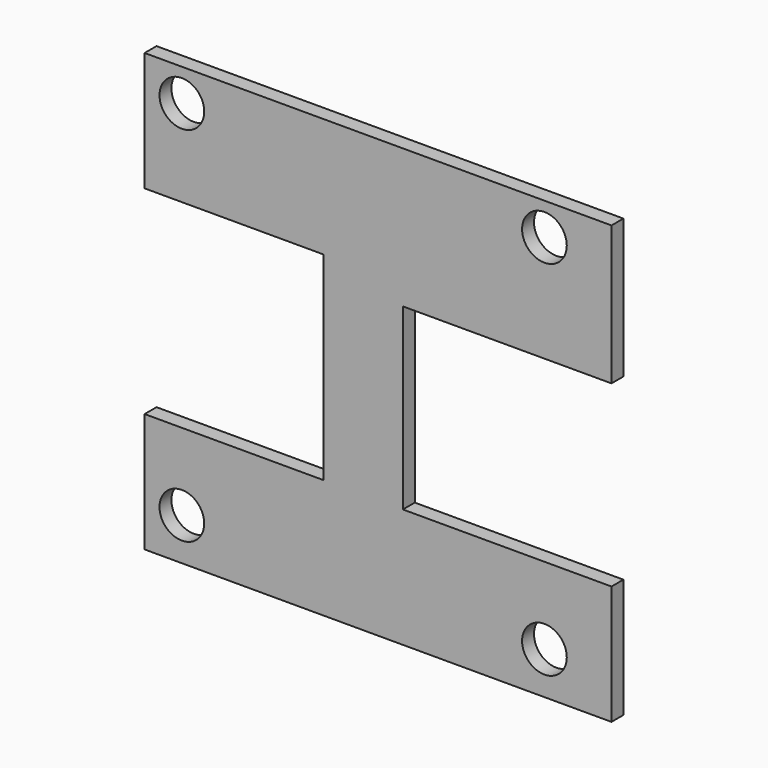
from build123d import *

# Parameters (mm, degrees)
BOX002_W               = 21
BOX002_H               = 18
BOX002_DEPTH           = 10
BOX001_W               = 18
BOX001_H               = 20
BOX001_DEPTH           = 10
CYLINDER002_R          = 2.25
CYLINDER002_DEPTH      = 10
CYLINDER003_R          = 2.25
CYLINDER003_DEPTH      = 10
CYLINDER004_R          = 2.25
CYLINDER004_DEPTH      = 10
CYLINDER005_R          = 2.25
CYLINDER005_DEPTH      = 10
BOX_W                  = 44
BOX_H                  = 47
BOX_DEPTH              = 1.5
CUT001_PLACEMENT_ANGLE = 90


with BuildPart() as obj1:
    # Box002 → Box002 (new body)
    with BuildSketch(Plane(origin=(-21, 12, -1), x_dir=(1, 0, 0), z_dir=(0, 0, 1))):
        with Locations((10.5, 9)):
            Rectangle(BOX002_W, BOX002_H)
    extrude(amount=BOX002_DEPTH)


with BuildPart() as compound001:
    # Box001 → Box001 (new body)
    with BuildSketch(Plane(origin=(-47, 12, -1), x_dir=(1, 0, 0), z_dir=(0, 0, 1))):
        with Locations((9, 10)):
            Rectangle(BOX001_W, BOX001_H)
    extrude(amount=BOX001_DEPTH)

    # Compound001: union obj1
    add(obj1.part)


with BuildPart() as zylinder002:
    # Cylinder002 → Cylinder002 (new body)
    with BuildSketch(Plane(origin=(-6.75, 4.25, -1), x_dir=(1, 0, 0), z_dir=(0, 0, 1))):
        Circle(CYLINDER002_R)
    extrude(amount=CYLINDER002_DEPTH)


with BuildPart() as zylinder003:
    # Cylinder003 → Cylinder003 (new body)
    with BuildSketch(Plane(origin=(-43.25, 4.25, -1), x_dir=(1, 0, 0), z_dir=(0, 0, 1))):
        Circle(CYLINDER003_R)
    extrude(amount=CYLINDER003_DEPTH)


with BuildPart() as zylinder004:
    # Cylinder004 → Cylinder004 (new body)
    with BuildSketch(Plane(origin=(-6.75, 40.75, -1), x_dir=(1, 0, 0), z_dir=(0, 0, 1))):
        Circle(CYLINDER004_R)
    extrude(amount=CYLINDER004_DEPTH)


with BuildPart() as compound:
    # Cylinder005 → Cylinder005 (new body)
    with BuildSketch(Plane(origin=(-43.25, 40.75, -1), x_dir=(1, 0, 0), z_dir=(0, 0, 1))):
        Circle(CYLINDER005_R)
    extrude(amount=CYLINDER005_DEPTH)

    # Compound: union Zylinder002, Zylinder003, Zylinder004
    add(zylinder002.part)
    add(zylinder003.part)
    add(zylinder004.part)


with BuildPart() as cut001:
    # Box → Box (new body)
    with BuildSketch(Plane(origin=(0, 0, 0), x_dir=(0, 1, 0), z_dir=(0, 0, 1))):
        with Locations((22, 23.5)):
            Rectangle(BOX_W, BOX_H)
    extrude(amount=BOX_DEPTH)

    # Cut: cut Compound
    add(compound.part, mode=Mode.SUBTRACT)

    # Cut001: cut Compound001
    add(compound001.part, mode=Mode.SUBTRACT)


with BuildPart() as cut001_1:
    # Cut001 placement: moved
    add(cut001.part.moved(Location((23.5, 2, 9))).rotate(Axis((23.5, 2, 9), (1, 0, 0)), CUT001_PLACEMENT_ANGLE))


solid = cut001_1.part
